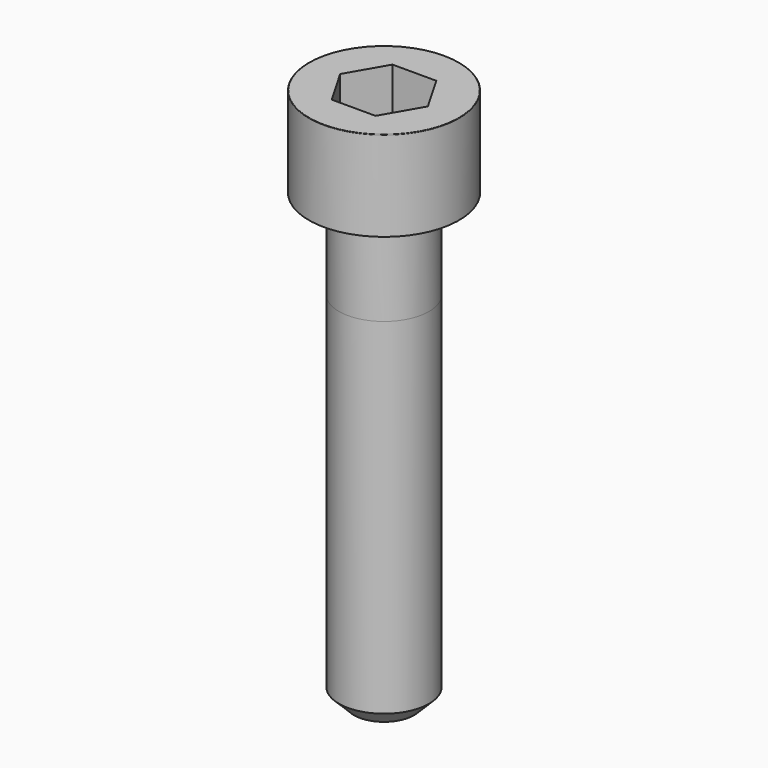
from build123d import *

# Parameters (mm, degrees)
POCKET_DEPTH = 5.06


with BuildPart() as part:
    # Sketch → Revolve (revolve)
    with BuildSketch(Plane.YZ):
        with BuildLine():
            Line((2.999, 0), (5, 0))
            Line((5, 0), (5, 5.97229))
            ThreePointArc((5, 5.97229), (4.991884, 5.991884), (4.97229, 6))
            Line((4.97229, 6), (0, 6))
            Line((0, -30), (0, 6))
            Line((2, -30), (0, -30))
            Line((3, -29), (2, -30))
            Line((3, -6), (3, -29))
            Line((2.999, 0), (3, -6))
        make_face()
    revolve(axis=Axis((0, 0, 0), (0, 0, 1)))

    # Sketch001 → Pocket (cut)
    with BuildSketch(Plane.XY.offset(6)):
        Polygon((2.921392, 0), (1.460696, 2.53), (-1.460696, 2.53), (-2.921392, 0), (-1.460696, -2.53), (1.460696, -2.53), align=None)
    extrude(amount=-POCKET_DEPTH, mode=Mode.SUBTRACT)


solid = part.part
